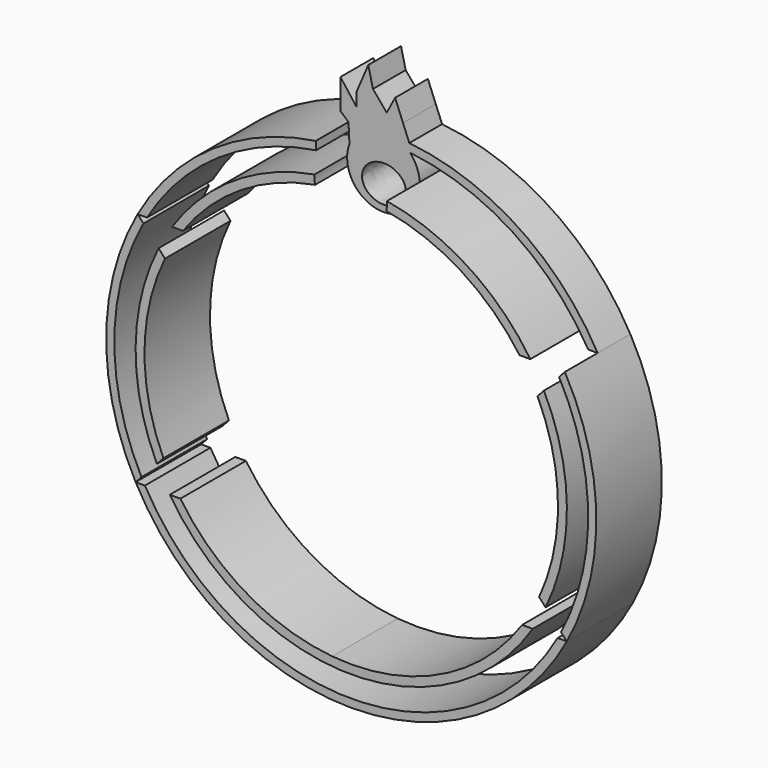
from build123d import *

# Parameters (mm, degrees)
F1_DEPTH = 12.7
F2_DEPTH = 12.7
F3_DEPTH = 25.4


with BuildPart() as f1:
    # F0 (on Front) → F1 (new body)
    with BuildSketch(Plane.XZ):
        with BuildLine():
            Line((63.3466057456, 37.2614624353), (66.2585269888, 37.2614624353))
            ThreePointArc((66.2585269888, 37.2614624353), (41.7213166691, 63.5447929963), (7.8495076022, 75.6108075076))
            Line((7.8495076022, 75.6108075076), (8.149599797, 73.039667753))
            ThreePointArc((8.149599797, 73.039667753), (39.9743273325, 61.670594262), (63.3466057456, 37.2614624353))
        make_face()
    extrude(amount=F1_DEPTH)

    # F0 (on Front) → F2 (join)
    with BuildSketch(Plane.XZ):
        with BuildLine():
            Line((-13.5198486969, 77.4112045765), (-11.0363508402, 75.2117540128))
            Line((-11.0363508402, 75.2117540128), (-11.0152158886, 75.1930363476))
            Line((-11.0152158886, 75.1930363476), (-10.8890932148, 72.6817493686))
            Line((-10.8890932148, 72.6817493686), (-10.7216399074, 69.3475089983))
            ThreePointArc((-10.7216399074, 69.3475089983), (-11.2070945673, 67.6547579778), (-11.4226153517, 65.9070099881))
            ThreePointArc((-11.4226153517, 65.9070099881), (-11.3990376589, 64.5245886753), (-11.2061646472, 63.1554851017))
            ThreePointArc((-11.2061646472, 63.1554851017), (-7.2273940073, 56.6319895305), (0, 54.1517907207))
            ThreePointArc((0, 54.1517907207), (7.0342398464, 56.7632011171), (10.8647513242, 63.2151137245))
            ThreePointArc((10.8647513242, 63.2151137245), (11.0502238061, 64.5852394677), (11.0663314804, 65.9677679978))
            ThreePointArc((11.0663314804, 65.9677679978), (10.219864309, 69.7237927096), (8.1571629271, 72.9748681188))
            Line((8.1571629271, 72.9748681188), (8.149599797, 73.039667753))
            Line((8.149599797, 73.039667753), (7.8495076022, 75.6108075076))
            Line((7.8495076022, 75.6108075076), (5.9040827809, 80.4410629841))
            Line((5.9040827809, 80.4410629841), (3.4492560662, 86.5361019969))
            Line((3.4492560662, 86.5361019969), (0.8442020878, 81.6354675754))
            Line((0.8442020878, 81.6354675754), (-3.4344375599, 86.6961926222))
            Line((-3.4344375599, 86.6961926222), (-4.8752105795, 92.7794575691))
            Line((-4.8752105795, 92.7794575691), (-7.2979036912, 87.1251598455))
            Line((-7.2979036912, 87.1251598455), (-8.5105830804, 84.2949002981))
            Line((-8.5105830804, 84.2949002981), (-8.5105830804, 80.1326707005))
            Line((-8.5105830804, 80.1326707005), (-13.5198486969, 86.6961926222))
            Line((-13.5198486969, 86.6961926222), (-13.5198486969, 77.4112045765))
        make_face()
        with BuildLine():
            add(Edge.make_bspline(
                [(0, 56.1765415512), (6.811060477, 56.1765415512), (6.811060477, 61.8630424142)],
                knots=[4.7123889804, 4.7123889804, 4.7123889804, 6.2831853072, 6.2831853072, 6.2831853072], degree=2, weights=[1, 0.7071067812, 1]))
            add(Edge.make_bspline(
                [(6.811060477, 61.8630424142), (6.811060477, 75.59146992), (-4.8161470504, 65.8840057356), (-16.4433545778, 56.1765415512), (0, 56.1765415512)],
                knots=[0, 0, 0, 2.3561944902, 2.3561944902, 4.7123889804, 4.7123889804, 4.7123889804], degree=2, weights=[1, 0.3826834324, 1, 0.3826834324, 1]))
        make_face(mode=Mode.SUBTRACT)
    extrude(amount=F2_DEPTH)



with BuildPart() as f3:
    # F0 (on Front) → F3 (new body)
    with BuildSketch(Plane.XZ):
        with BuildLine():
            Line((-64.4705774478, 35.2810669604), (-66.2585269888, 37.2614624353))
            ThreePointArc((-66.2585269888, 37.2614624353), (-76.0144117829, 0.6466705791), (-66.8828733826, -36.1288005563))
            Line((-66.8828733826, -36.1288005563), (-65.0675415569, -34.1675881216))
            ThreePointArc((-65.0675415569, -34.1675881216), (-73.4902033743, 0.6317042963), (-64.4705774478, 35.2810669604))
        make_face()
    extrude(amount=F3_DEPTH)

    # F0 (on Front) → F3, piece 3 (join)
    with BuildSketch(Plane.XZ):
        with BuildLine():
            Line((-63.9993657209, -36.1288005563), (-66.8828733826, -36.1288005563))
            ThreePointArc((-66.8828733826, -36.1288005563), (0, -76.0171624144), (66.8828733826, -36.1288005563))
            Line((66.8828733826, -36.1288005563), (63.9993657209, -36.1288005563))
            ThreePointArc((63.9993657209, -36.1288005563), (0, -73.492918314), (-63.9993657209, -36.1288005563))
        make_face()
    extrude(amount=F3_DEPTH)


with BuildPart() as f3b:
    # F0 (on Front) → F3, piece 2 (new body)
    with BuildSketch(Plane.XZ):
        with BuildLine():
            Line((-57.773844186, 27.8635308694), (-59.7553816497, 30.0583511016))
            ThreePointArc((-59.7553816497, 30.0583511016), (-66.8869079538, 0.593002054), (-60.2789259459, -28.9941579264))
            Line((-60.2789259459, -28.9941579264), (-58.26590002, -26.8193646344))
            ThreePointArc((-58.26590002, -26.8193646344), (-64.1393820053, 0.5771486096), (-57.773844186, 27.8635308694))
        make_face()
    extrude(amount=F3_DEPTH)


with BuildPart() as f3c:
    # F0 (on Front) → F3, piece 4 (new body)
    with BuildSketch(Plane.XZ):
        with BuildLine():
            Line((-52.9990867365, -36.1288005563), (-56.2931601299, -36.1288005563))
            ThreePointArc((-56.2931601299, -36.1288005563), (0, -66.8895366036), (56.2931601299, -36.1288005563))
            Line((56.2931601299, -36.1288005563), (52.9990867365, -36.1288005563))
            ThreePointArc((52.9990867365, -36.1288005563), (27.3205154762, -58.0326016877), (-5.9227437242, -63.8679460396))
            ThreePointArc((-5.9227437242, -63.8679460396), (-32.5624104489, -55.2619475796), (-52.9990867365, -36.1288005563))
        make_face()
    extrude(amount=F3_DEPTH)


with BuildPart() as f3d:
    # F0 (on Front) → F3, piece 5 (new body)
    with BuildSketch(Plane.XZ):
        with BuildLine():
            Line((58.26590002, -26.8193646344), (60.2789259459, -28.9941579264))
            ThreePointArc((60.2789259459, -28.9941579264), (66.8869079538, 0.593002054), (59.7553816497, 30.0583511016))
            Line((59.7553816497, 30.0583511016), (57.773844186, 27.8635308694))
            ThreePointArc((57.773844186, 27.8635308694), (64.1393820053, 0.5771486096), (58.26590002, -26.8193646344))
        make_face()
    extrude(amount=F3_DEPTH)


with BuildPart() as f1_1:
    add(f1.part)

    add(f3.part)  # F3#6 merges F3
    # F0 (on Front) → F3, piece 6 (join)
    with BuildSketch(Plane.XZ):
        with BuildLine():
            Line((-11.0152158886, 75.1930363476), (-11.0363508402, 75.2117540128))
            ThreePointArc((-11.0363508402, 75.2117540128), (-43.0543922539, 62.6492481135), (-66.2585269888, 37.2614624353))
            Line((-66.2585269888, 37.2614624353), (-63.3466057456, 37.2614624353))
            ThreePointArc((-63.3466057456, 37.2614624353), (-41.1264383535, 60.9083336718), (-10.8890932148, 72.6817493686))
            Line((-10.8890932148, 72.6817493686), (-11.0152158886, 75.1930363476))
        make_face()
        with BuildLine():
            ThreePointArc((-11.4226153517, 65.9070099881), (-36.4207625545, 56.1047071287), (-55.5499192099, 37.2614624353))
            Line((-55.5499192099, 37.2614624353), (-52.2089728085, 37.2614624353))
            ThreePointArc((-52.2089728085, 37.2614624353), (-34.2490148339, 54.2328167021), (-11.2061646472, 63.1554851017))
            ThreePointArc((-11.2061646472, 63.1554851017), (-11.3990376589, 64.5245886753), (-11.4226153517, 65.9070099881))
        make_face()
        with BuildLine():
            ThreePointArc((10.8647513242, 63.2151137245), (34.1023704865, 54.3251484281), (52.2089728085, 37.2614624353))
            Line((52.2089728085, 37.2614624353), (55.5499192099, 37.2614624353))
            ThreePointArc((55.5499192099, 37.2614624353), (36.2690530449, 56.2028993761), (11.0663314804, 65.9677679978))
            ThreePointArc((11.0663314804, 65.9677679978), (11.0502238061, 64.5852394677), (10.8647513242, 63.2151137245))
        make_face()
        with BuildLine():
            Line((65.0675415569, -34.1675881216), (66.8828733826, -36.1288005563))
            ThreePointArc((66.8828733826, -36.1288005563), (76.0144117829, 0.6466705791), (66.2585269888, 37.2614624353))
            Line((66.2585269888, 37.2614624353), (64.4705774478, 35.2810669604))
            ThreePointArc((64.4705774478, 35.2810669604), (73.4902033743, 0.6317042963), (65.0675415569, -34.1675881216))
        make_face()
    extrude(amount=F3_DEPTH)


solid = Compound([f3b.part, f3c.part, f3d.part, f1_1.part])
